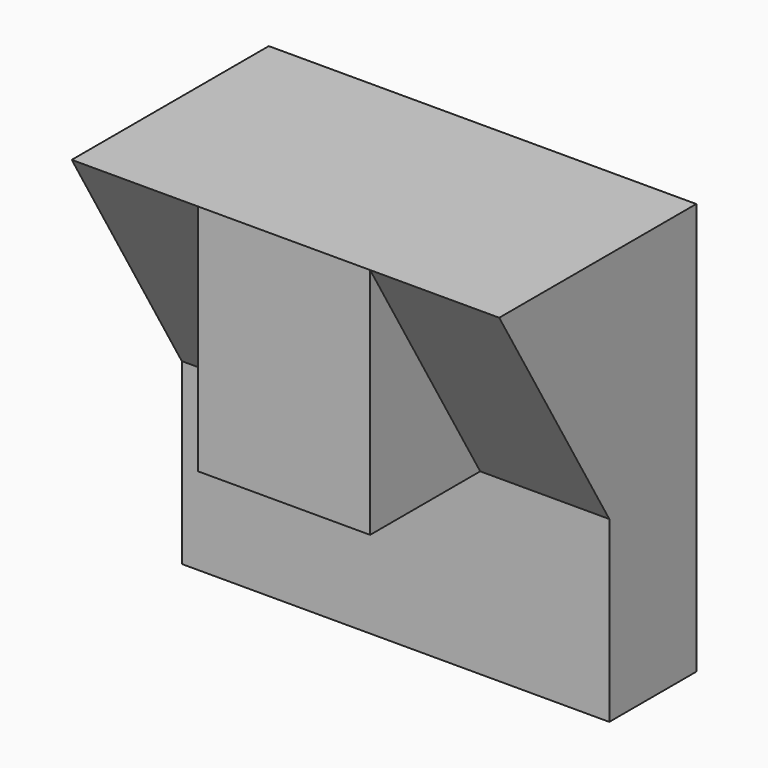
from build123d import *

# Parameters (mm, degrees)
F1_DEPTH = 20.066
F0_W     = 23.2850266621
F0_H     = 43.0419966578
F0_W_2   = 23.8309800625
F2_DEPTH = 45.466
F4_DEPTH = 78.9115072618
F0_W_3   = 31.7945005372
F5_DEPTH = 45.466


with BuildPart() as f1:
    # F0 (on Front) → F1 (new body)
    with BuildSketch(Plane.XZ):
        Polygon((-38.5636128485, 32.9706594348), (-38.5636128485, 0), (40.3468944132, 0), (40.3468944132, 32.9706594348), (16.5159143507, 32.9706594348), (-15.2785861865, 32.9706594348), align=None)
    extrude(amount=F1_DEPTH)

    # F0 (on Front) → F2 (join)
    with BuildSketch(Plane.XZ):
        with Locations((-26.9210995175, 54.4916577637)):
            Rectangle(F0_W, F0_H)
        with Locations((28.431404382, 54.4916577637)):
            Rectangle(F0_W_2, F0_H)
    extrude(amount=F2_DEPTH)

    # F3 (on face) → F4 (cut, through all)
    with BuildSketch(Plane(origin=(-38.5636128485, 0, 0), x_dir=(0, -1, 0), z_dir=(-1, 0, 0))):
        Polygon((45.466, 32.9706594348), (45.466, 76.0126560926), (20.066, 32.9706594348), align=None)
    extrude(amount=-F4_DEPTH, mode=Mode.SUBTRACT)

    # F0 (on Front) → F5 (join)
    with BuildSketch(Plane.XZ):
        with Locations((0.6186640821, 54.4916577637)):
            Rectangle(F0_W_3, F0_H)
    extrude(amount=F5_DEPTH)


solid = f1.part
